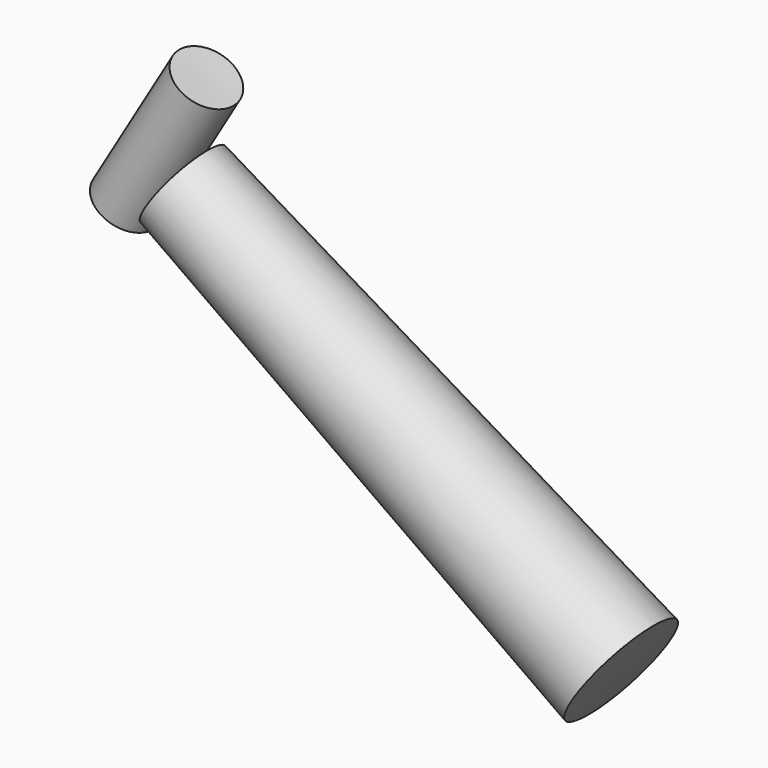
from build123d import *


with BuildPart() as f1:
    # F0 (on Front) → F1 (revolve)
    with BuildSketch(Plane.XZ):
        Polygon((-48.5411845148, 8.5514951497), (-28.0139185488, 43.2728417218), (-35.1468349733, 47.1161130368), (-55.5103850626, 12.6716876924), align=None)
    revolve(axis=Axis((-45.328610018, 0, 29.8939003646), (0.5089150177, 0, 0.8608167661)))

    # F2 (on Front) → F3 (revolve)
    with BuildSketch(Plane.XZ):
        Polygon((-40.6971275806, 21.0406929255), (-47.3415590823, 11.6277504712), (63.675776124, -65.0600343943), (72.314089996, -52.5547496422), align=None)
    revolve(axis=Axis((15.8084812077, 0, -15.7570283584), (-0.8379752215, 0, 0.5457082811)))


solid = f1.part
